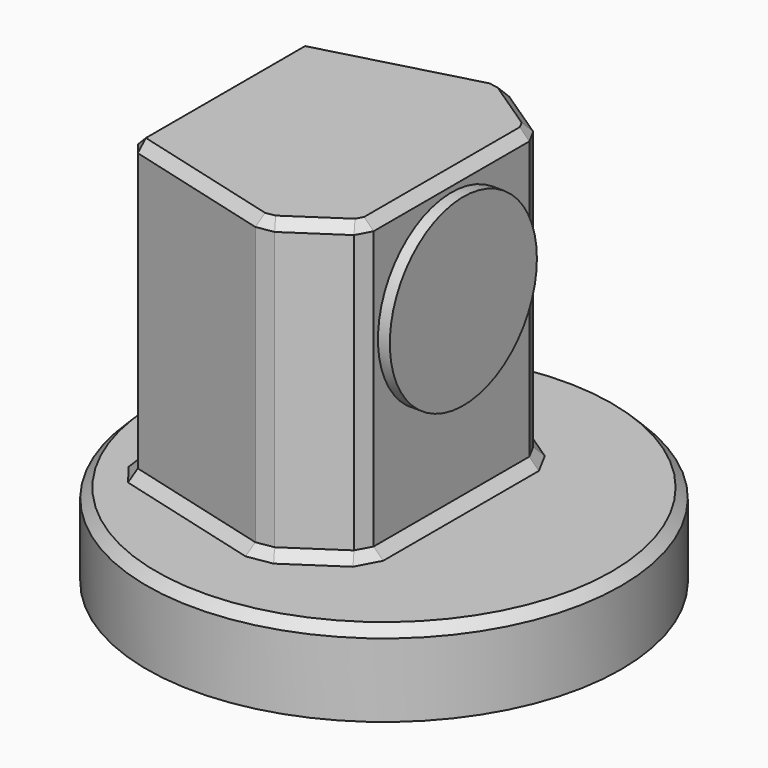
from build123d import *

# Parameters (mm, degrees)
SKETCH_R     = 200
PAD_DEPTH    = 70
PAD001_DEPTH = 250
SKETCH002_R  = 77.5
PAD002_DEPTH = 10
CHAMFER_SIZE = 8


with BuildPart() as part:
    # Sketch → Pad (new body)
    with BuildSketch(Plane.XY):
        Circle(SKETCH_R)
    extrude(amount=PAD_DEPTH)

    # Sketch001 (on Face3 of Pad) → Pad001 (join)
    with BuildSketch(Plane.XY.offset(70)):
        Polygon((-141.633641, -90), (0, -128.021286), (56.899487, -90), (56.899487, 90), (0, 128.021286), (-141.633641, 90), align=None)
    extrude(amount=PAD001_DEPTH)

    # Sketch002 (on Face6 of Pad001) → Pad002 (join)
    with BuildSketch(Plane.YZ.offset(56.899487)):
        with Locations((0, 230)):
            Circle(SKETCH002_R)
    extrude(amount=PAD002_DEPTH)

    # Chamfer
    chamfer_edges = [part.edges().sort_by_distance(p)[0] for p in [
        (-200, 0, 70),
        (-70.816821, -109.010643, 70),
        (28.449744, -109.010643, 70),
        (56.899487, 0, 70),
        (28.449744, 109.010643, 70),
        (-70.816821, 109.010643, 70),
        (-141.633641, 0, 70),
        (0, -128.021286, 195),
        (56.899487, -90, 195),
        (28.449744, -109.010643, 320),
        (-141.633641, 90, 195),
        (-141.633641, -90, 195),
        (-141.633641, 0, 320),
        (56.899487, 90, 195),
        (0, 128.021286, 195),
        (28.449744, 109.010643, 320),
        (-70.816821, -109.010643, 320),
        (56.899487, 0, 320),
        (-70.816821, 109.010643, 320),
    ]]
    chamfer(chamfer_edges, length=CHAMFER_SIZE)


solid = part.part
